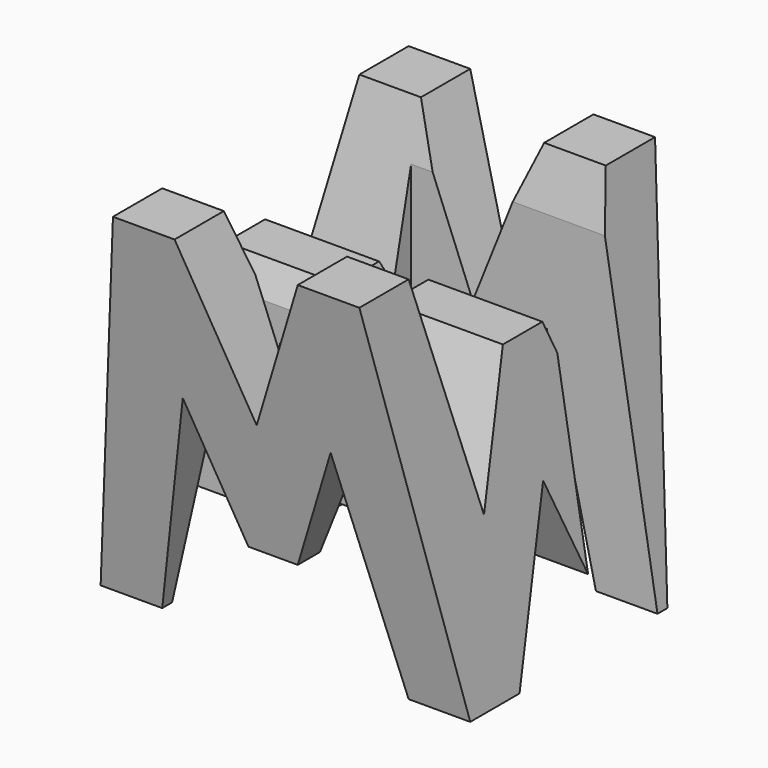
from build123d import *

# Parameters (mm, degrees)
F0_W      = 38.1
F0_H      = 38.1
F1_DEPTH  = 38.1
F6_DEPTH  = 38.1
F8_DEPTH  = 38.1
F9_W      = 25.4
F9_H      = 7.62
F10_DEPTH = 38.1


with BuildPart() as f1:
    # F0 (on Front) → F1 (new body)
    with BuildSketch(Plane.XZ):
        with Locations((19.05, 19.05)):
            Rectangle(F0_W, F0_H)
    extrude(amount=F1_DEPTH)

    # F5 (on offset) → F6 (cut)
    with BuildSketch(Plane.YZ.offset(38.1)):
        Polygon((-11.43, 15.875), (-6.35, 38.1), (-31.75, 38.1), (-26.67, 15.875), (-21.59, 28.575), (-16.51, 28.575), align=None)
        Polygon((-31.75, 0), (-38.1, 38.1), (-38.1, 0), align=None)
        Polygon((-25.4, 0), (-12.7, 0), (-19.05, 15.875), align=None)
        Polygon((-6.35, 0), (0, 0), (0, 38.1), align=None)
    extrude(amount=-F6_DEPTH, mode=Mode.SUBTRACT)

    # F7 (on offset) → F8 (cut)
    with BuildSketch(Plane.XZ.offset(38.1)):
        Polygon((0, 38.1), (0, 0), (6.35, 38.1), align=None)
        Polygon((25.4, 38.1), (12.7, 38.1), (19.05, 22.225), align=None)
        Polygon((31.75, 38.1), (38.1, 0), (38.1, 38.1), align=None)
        Polygon((11.43, 22.225), (6.35, 0), (31.75, 0), (26.67, 22.225), (21.59, 9.525), (16.51, 9.525), align=None)
    extrude(amount=-F8_DEPTH, mode=Mode.SUBTRACT)

    # F9 (on offset) → F10 (cut)
    with BuildSketch(Plane.XY.offset(38.1)):
        with Locations((25.4, -11.43)):
            Rectangle(F9_W, F9_H)
        with Locations((12.7, -26.67)):
            Rectangle(F9_W, F9_H)
    extrude(amount=-F10_DEPTH, mode=Mode.SUBTRACT)


solid = f1.part
